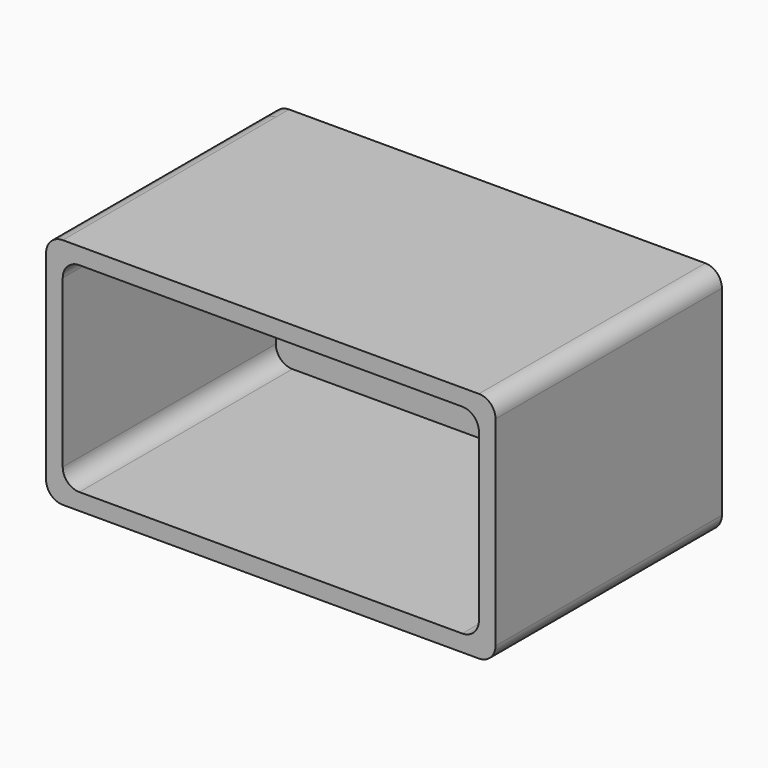
from build123d import *

# Parameters (mm, degrees)
F1_DEPTH = 160
F3_DEPTH = 10


with BuildPart() as f1:
    # F0 (on Front) → F1 (new body)
    with BuildSketch(Plane.XZ):
        with BuildLine():
            Line((125, 70), (-125, 70))
            ThreePointArc((-125, 70), (-128.826834, 69.238795), (-132.071068, 67.071068))
            ThreePointArc((-132.071068, 67.071068), (-134.238795, 63.826834), (-135, 60))
            Line((-135, 60), (-135, -60))
            ThreePointArc((-135, -60), (-132.071068, -67.071068), (-125, -70))
            Line((-125, -70), (125, -70))
            ThreePointArc((125, -70), (132.071068, -67.071068), (135, -60))
            Line((135, -60), (135, 60))
            ThreePointArc((135, 60), (132.071068, 67.071068), (125, 70))
        make_face()
        with BuildLine():
            ThreePointArc((-115, -60), (-122.071068, -57.071068), (-125, -50))
            Line((-125, -50), (-125, 50))
            ThreePointArc((-125, 50), (-122.071068, 57.071068), (-115, 60))
            Line((-115, 60), (115, 60))
            ThreePointArc((115, 60), (122.071068, 57.071068), (125, 50))
            Line((125, 50), (125, -50))
            ThreePointArc((125, -50), (122.071068, -57.071068), (115, -60))
            Line((115, -60), (-115, -60))
        make_face(mode=Mode.SUBTRACT)
    extrude(amount=F1_DEPTH)

    # F2 (on face) → F3 (join)
    with BuildSketch(Plane(origin=(0, 0, 0), x_dir=(-1, 0, 0), z_dir=(0, 1, 0))):
        with BuildLine():
            Line((125, 70), (-125, 70))
            ThreePointArc((-125, 70), (-132.071068, 67.071068), (-135, 60))
            Line((-135, 60), (-135, -60))
            ThreePointArc((-135, -60), (-132.071068, -67.071068), (-125, -70))
            Line((-125, -70), (125, -70))
            ThreePointArc((125, -70), (132.071068, -67.071068), (135, -60))
            Line((135, -60), (135, 60))
            ThreePointArc((135, 60), (132.071068, 67.071068), (125, 70))
        make_face()
    extrude(amount=F3_DEPTH)


solid = f1.part
